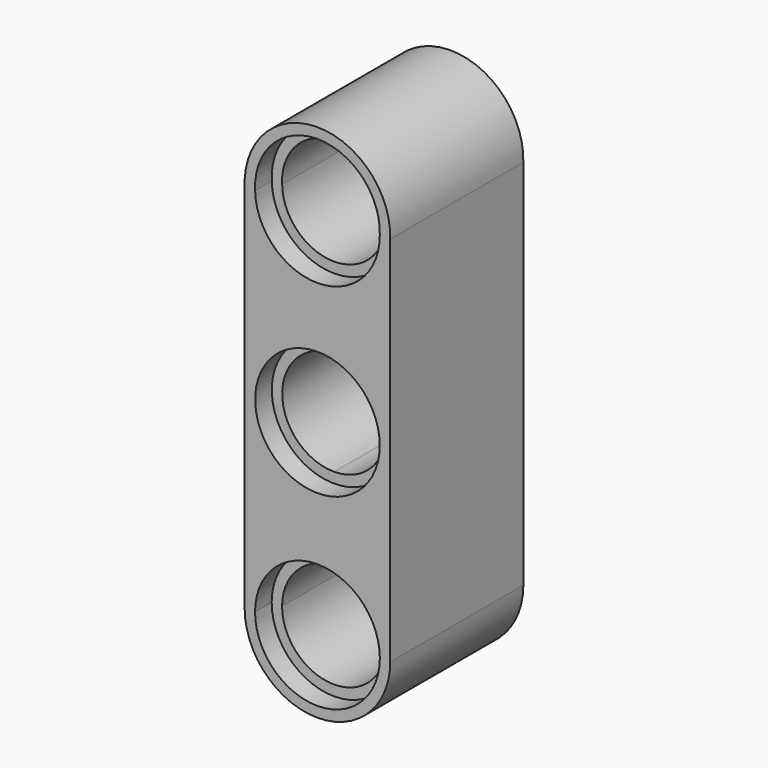
from build123d import *

# Parameters (mm, degrees)
F1_DEPTH = 8
F2_DEPTH = 1
F3_R     = 2.995
F3_R_2   = 2.495
F4_DEPTH = 1


with BuildPart() as f1:
    # F0 (on Front) → F1 (new body)
    with BuildSketch(Plane.XZ):
        with BuildLine():
            Line((3.4999999884, -7.8863207898), (3.4985407065, 10.0123348381))
            ThreePointArc((3.4985407065, 10.0123348381), (0.1392265828, 13.6106236093), (-3.495502424, 10.2907714275))
            Line((-3.495502424, 10.2907714275), (-3.4955897742, 9.9377461081))
            Line((-3.4955897742, 9.9377461081), (-3.4999998929, -7.8857401302))
            ThreePointArc((-3.4999998929, -7.8857401302), (-0.0002903298, -11.3866061336), (3.4999999884, -7.8863207898))
        make_face()
        with BuildLine():
            ThreePointArc((-2.9999999082, -7.8858638467), (0.0002488951, -4.8861127517), (2.99999999, -7.8863615549))
            ThreePointArc((2.99999999, -7.8863615549), (-0.0002488541, -10.8866061353), (-2.9999999082, -7.8858638467))
        make_face(mode=Mode.SUBTRACT)
        with BuildLine():
            ThreePointArc((2.9952903298, 1.1133938423), (2.1180751395, -1.0043909674), (0.0002903298, -1.8816061577))
            ThreePointArc((0.0002903298, -1.8816061577), (-2.1174944798, 3.231178652), (2.9952903298, 1.1133938423))
        make_face(mode=Mode.SUBTRACT)
        with BuildLine():
            ThreePointArc((2.9985313735, 10.0195343729), (0.0330453014, 7.0147601911), (-2.9958477024, 9.9556074667))
            ThreePointArc((-2.9958477024, 9.9556074667), (-0.031991606, 13.1132232724), (2.9985313735, 10.0195343729))
        make_face(mode=Mode.SUBTRACT)
        with BuildLine():
            ThreePointArc((2.9985313735, 10.0195343729), (-0.031991606, 13.1132232724), (-2.9958477024, 9.9556074667))
            ThreePointArc((-2.9958477024, 9.9556074667), (0.0330453014, 7.0147601911), (2.9985313735, 10.0195343729))
        make_face()
        with BuildLine():
            ThreePointArc((-2.4960813645, 9.9734690786), (-0.0266596741, 12.6132519269), (2.4984977744, 10.0267336432))
            ThreePointArc((2.4984977744, 10.0267336432), (0.0277133695, 7.5147315366), (-2.4960813645, 9.9734690786))
        make_face(mode=Mode.SUBTRACT)
        with BuildLine():
            ThreePointArc((2.9952903298, 1.1133938423), (-2.1174944798, 3.231178652), (0.0002903298, -1.8816061577))
            ThreePointArc((0.0002903298, -1.8816061577), (2.1180751395, -1.0043909674), (2.9952903298, 1.1133938423))
        make_face()
        with BuildLine():
            ThreePointArc((2.4952903298, 1.1133938423), (1.7645217489, -0.6508375768), (0.0002903298, -1.3816061577))
            ThreePointArc((0.0002903298, -1.3816061577), (-1.7639410893, 2.8776252614), (2.4952903298, 1.1133938423))
        make_face(mode=Mode.SUBTRACT)
        with BuildLine():
            ThreePointArc((-2.9999999082, -7.8858638467), (-0.0002488541, -10.8866061353), (2.99999999, -7.8863615549))
            ThreePointArc((2.99999999, -7.8863615549), (0.0002488951, -4.8861127517), (-2.9999999082, -7.8858638467))
        make_face()
        with BuildLine():
            ThreePointArc((-2.4999999235, -7.8859875632), (0.0002074125, -5.386194984), (2.4999999917, -7.88640232))
            ThreePointArc((2.4999999917, -7.88640232), (-0.0002073784, -10.3866061371), (-2.4999999235, -7.8859875632))
        make_face(mode=Mode.SUBTRACT)
    extrude(amount=F1_DEPTH)

    # F0 (on Front) → F2 (cut)
    with BuildSketch(Plane.XZ):
        with BuildLine():
            ThreePointArc((2.9985313735, 10.0195343729), (-0.031991606, 13.1132232724), (-2.9958477024, 9.9556074667))
            ThreePointArc((-2.9958477024, 9.9556074667), (0.0330453014, 7.0147601911), (2.9985313735, 10.0195343729))
        make_face()
        with BuildLine():
            ThreePointArc((-2.4960813645, 9.9734690786), (-0.0266596741, 12.6132519269), (2.4984977744, 10.0267336432))
            ThreePointArc((2.4984977744, 10.0267336432), (0.0277133695, 7.5147315366), (-2.4960813645, 9.9734690786))
        make_face(mode=Mode.SUBTRACT)
        with BuildLine():
            ThreePointArc((2.9952903298, 1.1133938423), (-2.1174944798, 3.231178652), (0.0002903298, -1.8816061577))
            ThreePointArc((0.0002903298, -1.8816061577), (2.1180751395, -1.0043909674), (2.9952903298, 1.1133938423))
        make_face()
        with BuildLine():
            ThreePointArc((2.4952903298, 1.1133938423), (1.7645217489, -0.6508375768), (0.0002903298, -1.3816061577))
            ThreePointArc((0.0002903298, -1.3816061577), (-1.7639410893, 2.8776252614), (2.4952903298, 1.1133938423))
        make_face(mode=Mode.SUBTRACT)
        with BuildLine():
            ThreePointArc((-2.9999999082, -7.8858638467), (-0.0002488541, -10.8866061353), (2.99999999, -7.8863615549))
            ThreePointArc((2.99999999, -7.8863615549), (0.0002488951, -4.8861127517), (-2.9999999082, -7.8858638467))
        make_face()
        with BuildLine():
            ThreePointArc((-2.4999999235, -7.8859875632), (0.0002074125, -5.386194984), (2.4999999917, -7.88640232))
            ThreePointArc((2.4999999917, -7.88640232), (-0.0002073784, -10.3866061371), (-2.4999999235, -7.8859875632))
        make_face(mode=Mode.SUBTRACT)
    extrude(amount=F2_DEPTH, mode=Mode.SUBTRACT)

    # F3 (on face) → F4 (cut)
    with BuildSketch(Plane.XZ.offset(8)):
        with BuildLine():
            ThreePointArc((2.9985313735, 10.0195343729), (-0.031991606, 13.1132232724), (-2.9958477024, 9.9556074667))
            ThreePointArc((-2.9958477024, 9.9556074667), (0.0330453014, 7.0147601911), (2.9985313735, 10.0195343729))
        make_face()
        with BuildLine():
            ThreePointArc((2.4984977744, 10.0267336432), (0.0277133695, 7.5147315366), (-2.4960813645, 9.9734690786))
            ThreePointArc((-2.4960813645, 9.9734690786), (-0.0266596741, 12.6132519269), (2.4984977744, 10.0267336432))
        make_face(mode=Mode.SUBTRACT)
        with Locations((0.0002903298, 1.1133938423)):
            Circle(F3_R)
        with Locations((0.0002903298, 1.1133938423)):
            Circle(F3_R_2, mode=Mode.SUBTRACT)
        with BuildLine():
            ThreePointArc((-2.9999999082, -7.8858638467), (-0.0002488541, -10.8866061353), (2.99999999, -7.8863615549))
            ThreePointArc((2.99999999, -7.8863615549), (0.0002488951, -4.8861127517), (-2.9999999082, -7.8858638467))
        make_face()
        with BuildLine():
            ThreePointArc((-2.4999999235, -7.8859875632), (0.0002074125, -5.386194984), (2.4999999917, -7.88640232))
            ThreePointArc((2.4999999917, -7.88640232), (-0.0002073784, -10.3866061371), (-2.4999999235, -7.8859875632))
        make_face(mode=Mode.SUBTRACT)
    extrude(amount=-F4_DEPTH, mode=Mode.SUBTRACT)


solid = f1.part
